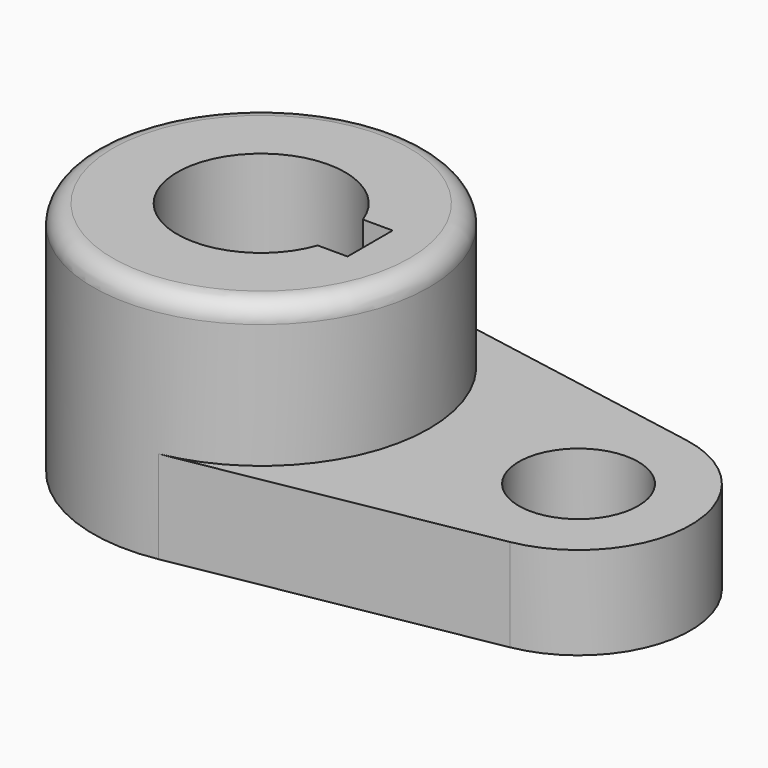
from build123d import *

# Parameters (mm, degrees)
F0_R     = 28.575
F1_DEPTH = 40.2336
F2_R     = 10.16
F3_DEPTH = 15.7734
F4_R     = 3.302


with BuildPart() as f1:
    # F0 (on Top) → F1 (new body)
    with BuildSketch(Plane.XY):
        Circle(F0_R)
        with BuildLine():
            ThreePointArc((13.4603984155, -4.790650347), (-14.2875, 0), (13.4603984155, 4.790650347))
            Line((13.4603984155, 4.790650347), (18.5293, 4.790650347))
            Line((18.5293, 4.790650347), (18.5293, 0.035349653))
            Line((18.5293, 0.035349653), (18.5293, -0.035349653))
            Line((18.5293, -0.035349653), (18.5293, -4.790650347))
            Line((18.5293, -4.790650347), (13.4603984155, -4.790650347))
        make_face(mode=Mode.SUBTRACT)
    extrude(amount=F1_DEPTH)

    # F2 (on Top) → F3 (join)
    with BuildSketch(Plane.XY):
        with BuildLine():
            Line((5.0426470588, -28.1265414802), (57.3367647059, -18.7510276535))
            ThreePointArc((57.3367647059, -18.7510276535), (73.025, 0), (57.3367647059, 18.7510276535))
            Line((57.3367647059, 18.7510276535), (5.0426470588, 28.1265414802))
            ThreePointArc((5.0426470588, 28.1265414802), (21.9160245563, 18.3362616868), (28.575, 0))
            ThreePointArc((28.575, 0), (21.9160245563, -18.3362616868), (5.0426470588, -28.1265414802))
        make_face()
        with Locations((53.975, 0)):
            Circle(F2_R, mode=Mode.SUBTRACT)
    extrude(amount=F3_DEPTH)

    # F4
    f4_edges = [f1.edges().sort_by_distance(p)[0] for p in [
        (-28.575, 0, 40.2336),
    ]]
    fillet(f4_edges, radius=F4_R)


solid = f1.part
